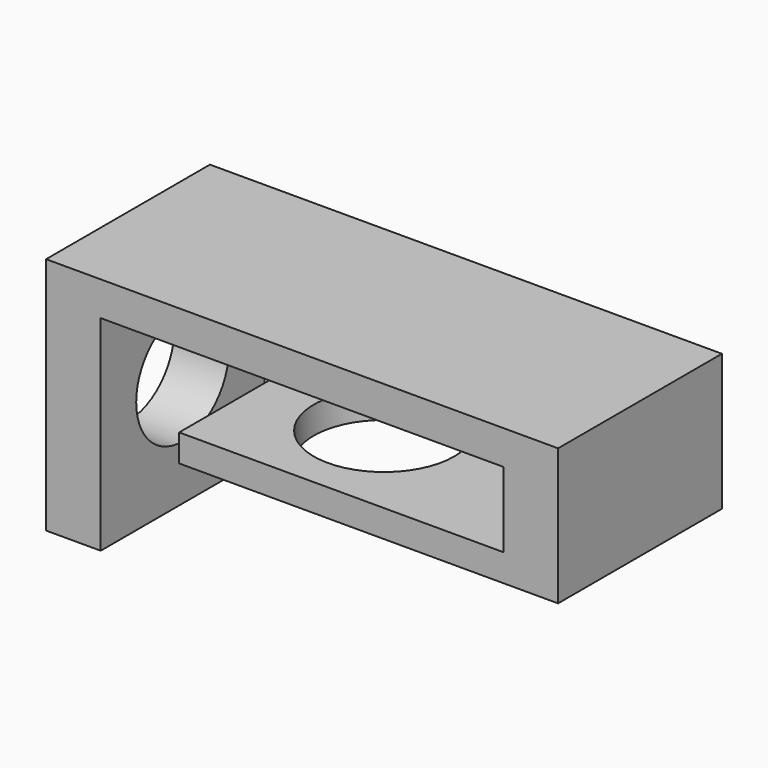
from build123d import *

# Parameters (mm, degrees)
F0_W     = 47.5073454976
F0_H     = 4
F0_W_2   = 8
F0_H_2   = 30
F1_DEPTH = 15
F3_R     = 10.286668946
F4_DEPTH = 10
F6_DEPTH = 10


with BuildPart() as f1:
    # F0 (on Front) → F1 (new body)
    with BuildSketch(Plane.XZ):
        Polygon((37.5, -17.5), (37.5, -2.5), (29.5, -2.5), (29.5, -13.5), (29.5, -17.5), align=None)
        with Locations((5.7463272512, -15.5)):
            Rectangle(F0_W, F0_H)
        Polygon((37.5, 2.5), (-37.5, 2.5), (-37.5, -2.5), (-29.5, -2.5), (29.5, -2.5), (37.5, -2.5), align=None)
        with Locations((-33.5, -17.5)):
            Rectangle(F0_W_2, F0_H_2)
    extrude(amount=F1_DEPTH)

    # F2: F1 across plane


with BuildPart() as f1_1:
    add(f1.part)
    add(f1.part.mirror(Plane.XZ))

    # F3 (on face) → F4 (cut)
    with BuildSketch(Plane(origin=(0, 0, -17.5), x_dir=(1, 0, 0), z_dir=(0, 0, -1))):
        Circle(F3_R)
    extrude(amount=-F4_DEPTH, mode=Mode.SUBTRACT)

    # F5 (on face) → F6 (cut)
    with BuildSketch(Plane(origin=(-37.5, 0, 0), x_dir=(0, -1, 0), z_dir=(-1, 0, 0))):
        with BuildLine():
            ThreePointArc((8.5, -16), (6.0104076401, -9.9895923599), (0, -7.5))
            ThreePointArc((0, -7.5), (-6.0104076401, -22.0104076401), (8.5, -16))
        make_face()
    extrude(amount=-F6_DEPTH, mode=Mode.SUBTRACT)


solid = f1_1.part
